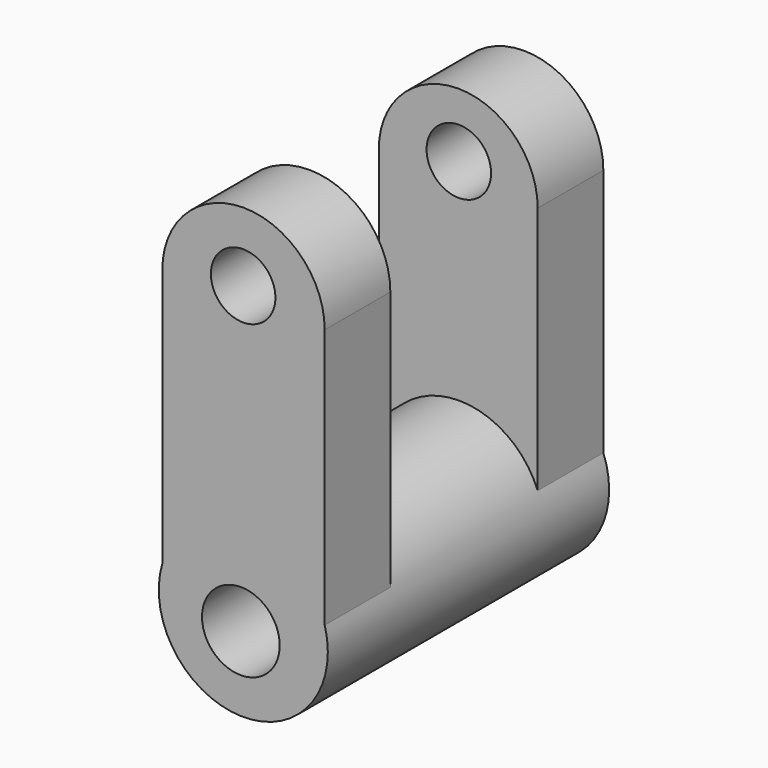
from build123d import *

# Parameters (mm, degrees)
F0_R      = 18.3156602834
F1_DEPTH  = 76.2
F2_W      = 35.1851196028
F2_H      = 56.3925905153
F3_DEPTH  = 17.78
F5_DEPTH  = 17.78
F7_DEPTH  = 17.78
F9_DEPTH  = 17.78
F10_R     = 6.9929791969
F11_DEPTH = 127
F12_R     = 8.4175574938
F13_DEPTH = 127


with BuildPart() as f1:
    # F0 (on Front) → F1 (new body)
    with BuildSketch(Plane.XZ):
        with Locations((-23.0617076159, -12.4766519293)):
            Circle(F0_R)
    extrude(amount=-F1_DEPTH)

    # F2 (on Front) → F3 (join)
    with BuildSketch(Plane.XZ):
        with Locations((-23.0149261188, 20.6049853005)):
            Rectangle(F2_W, F2_H)
    extrude(amount=-F3_DEPTH)

    # F4 (on face) → F5 (join)
    with BuildSketch(Plane(origin=(0, 76.2, 0), x_dir=(-1, 0, 0), z_dir=(0, 1, 0))):
        with BuildLine():
            Line((6.0013058485, 48.0782985687), (6.0013058485, -5.8128614799))
            ThreePointArc((6.0013058485, -5.8128614799), (23.0617076159, 5.8390083541), (40.1221093832, -5.8128614799))
            Line((40.1221093832, -5.8128614799), (40.4440611601, -5.8128614799))
            Line((40.4440611601, -5.8128614799), (40.4440611601, 48.0782985687))
            Line((40.4440611601, 48.0782985687), (6.0013058485, 48.0782985687))
        make_face()
    extrude(amount=-F5_DEPTH)

    # F6 (on face) → F7 (join)
    with BuildSketch(Plane.XZ):
        with BuildLine():
            Line((-40.6074859202, 48.8012805581), (-5.4223663174, 48.8012805581))
            ThreePointArc((-5.4223663174, 48.8012805581), (-23.0149261188, 66.3938403595), (-40.6074859202, 48.8012805581))
        make_face()
    extrude(amount=-F7_DEPTH)

    # F8 (on face) → F9 (join)
    with BuildSketch(Plane(origin=(0, 76.2, 0), x_dir=(-1, 0, 0), z_dir=(0, 1, 0))):
        with BuildLine():
            Line((6.0013058485, 48.0782985687), (40.4440611601, 48.0782985687))
            ThreePointArc((40.4440611601, 48.0782985687), (23.2226835043, 65.2996762245), (6.0013058485, 48.0782985687))
        make_face()
    extrude(amount=-F9_DEPTH)

    # F10 (on face) → F11 (cut)
    with BuildSketch(Plane(origin=(0, 76.2, 0), x_dir=(-1, 0, 0), z_dir=(0, 1, 0))):
        with Locations((23.0925008655, 51.4522157609)):
            Circle(F10_R)
    extrude(amount=-F11_DEPTH, mode=Mode.SUBTRACT)

    # F12 (on face) → F13 (cut)
    with BuildSketch(Plane(origin=(0, 76.2, 0), x_dir=(-1, 0, 0), z_dir=(0, 1, 0))):
        with Locations((23.5904790461, -14.580136165)):
            Circle(F12_R)
    extrude(amount=-F13_DEPTH, mode=Mode.SUBTRACT)


solid = f1.part
